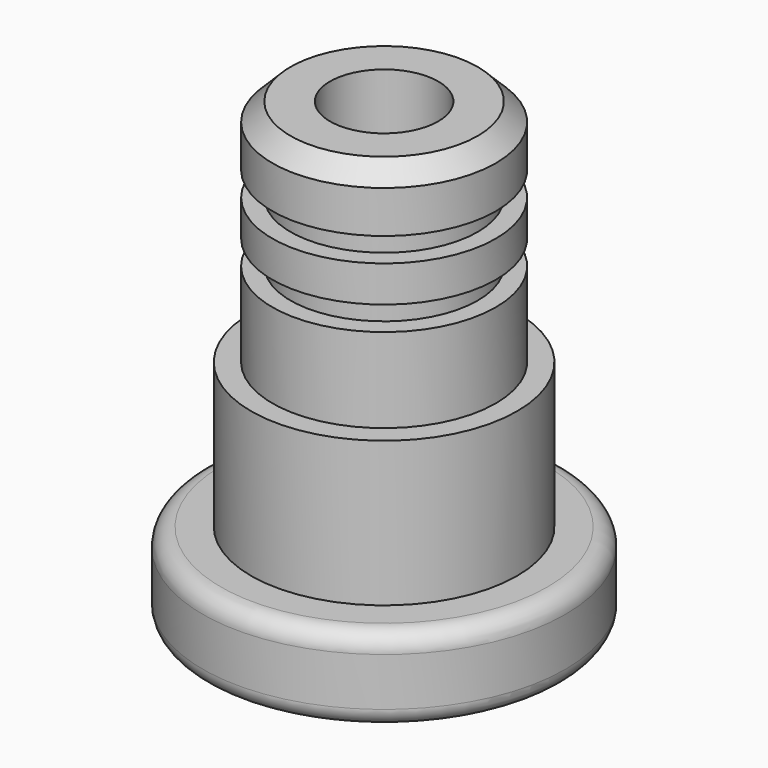
from build123d import *

# Parameters (mm, degrees)
F0_R      = 15.020122
F1_DEPTH  = 7
F2_R      = 11.015093
F3_DEPTH  = 12
F4_R      = 9.249668
F5_DEPTH  = 7
F6_R      = 7.745011
F7_DEPTH  = 2
F8_R      = 9.244849
F9_DEPTH  = 3
F10_R     = 7.744613
F11_DEPTH = 2
F12_R     = 9.247202
F13_DEPTH = 5
F14_SIZE  = 1.5
F15_R     = 1.5
F16_R     = 4.480588
F17_DEPTH = 50


with BuildPart() as f1:
    # F0 (on Top) → F1 (new body)
    with BuildSketch(Plane.XY):
        Circle(F0_R)
    extrude(amount=F1_DEPTH)

    # F2 (on face) → F3 (join)
    with BuildSketch(Plane.XY.offset(7)):
        Circle(F2_R)
    extrude(amount=F3_DEPTH)

    # F4 (on face) → F5 (join)
    with BuildSketch(Plane.XY.offset(19)):
        Circle(F4_R)
    extrude(amount=F5_DEPTH)

    # F6 (on face) → F7 (join)
    with BuildSketch(Plane.XY.offset(26)):
        Circle(F6_R)
    extrude(amount=F7_DEPTH)

    # F8 (on face) → F9 (join)
    with BuildSketch(Plane.XY.offset(28)):
        Circle(F8_R)
    extrude(amount=F9_DEPTH)

    # F10 (on face) → F11 (join)
    with BuildSketch(Plane.XY.offset(31)):
        Circle(F10_R)
    extrude(amount=F11_DEPTH)

    # F12 (on face) → F13 (join)
    with BuildSketch(Plane.XY.offset(33)):
        Circle(F12_R)
    extrude(amount=F13_DEPTH)

    # F14
    f14_edges = [f1.edges().sort_by_distance(p)[0] for p in [
        (-9.247202, 0, 38),
    ]]
    chamfer(f14_edges, length=F14_SIZE)

    # F15
    f15_edges = [f1.edges().sort_by_distance(p)[0] for p in [
        (-15.020122, 0, 7),
        (-15.020122, 0, 0),
    ]]
    fillet(f15_edges, radius=F15_R)

    # F16 (on Top) → F17 (cut)
    with BuildSketch(Plane.XY):
        Circle(F16_R)
    extrude(amount=F17_DEPTH, mode=Mode.SUBTRACT)


solid = f1.part
